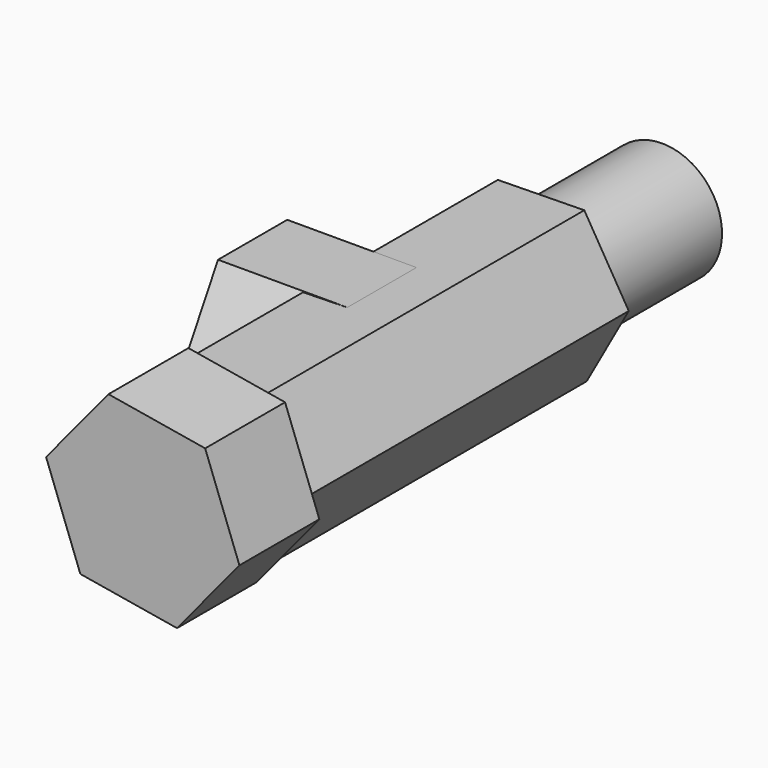
from build123d import *

# Parameters (mm, degrees)
F1_DEPTH  = 50.8
F3_DEPTH  = 16.51
F6_DEPTH  = 12.7
F4_R      = 7.62
F7_DEPTH  = 19.05
F8_R      = 6.35
F9_DEPTH  = 70.358
F10_R     = 7.62
F11_DEPTH = 17.018


with BuildPart() as f1:
    # F0 (on Front) → F1 (new body)
    with BuildSketch(Plane.XZ):
        Polygon((-5.651368, 9.435547), (-10.997107, -0.176455), (-5.345739, -9.612001), (5.651368, -9.435547), (10.997107, 0.176455), (5.345739, 9.612001), align=None)
    extrude(amount=F1_DEPTH)

    # F2 (on Right) → F3 (join)
    with BuildSketch(Plane.YZ):
        Polygon((-19.900739, 9.525), (-30.899261, 9.525), (-36.398523, 0), (-30.899261, -9.525), (-19.900739, -9.525), (-14.401477, 0), align=None)
    extrude(amount=-F3_DEPTH)

    # F5 (on face) → F6 (join)
    with BuildSketch(Plane.XZ.offset(50.8)):
        Polygon((-4.356068, 11.679071), (-12.292406, 2.06707), (-7.936338, -9.612001), (4.356068, -11.679071), (12.292406, -2.06707), (7.936338, 9.612001), align=None)
    extrude(amount=F6_DEPTH)

    # F4 (on face) → F7 (join)
    with BuildSketch(Plane(origin=(0, 0, 0), x_dir=(-1, 0, 0), z_dir=(0, 1, 0))):
        Circle(F4_R)
    extrude(amount=F7_DEPTH)

    # F8 (on face) → F9 (cut)
    with BuildSketch(Plane(origin=(0, 19.05, 0), x_dir=(-1, 0, 0), z_dir=(0, 1, 0))):
        Circle(F8_R)
    extrude(amount=-F9_DEPTH, mode=Mode.SUBTRACT)

    # F10 (on face) → F11 (cut)
    with BuildSketch(Plane(origin=(-16.51, 0, 0), x_dir=(0, -1, 0), z_dir=(-1, 0, 0))):
        with Locations((25.4, 0)):
            Circle(F10_R)
    extrude(amount=-F11_DEPTH, mode=Mode.SUBTRACT)


solid = f1.part
